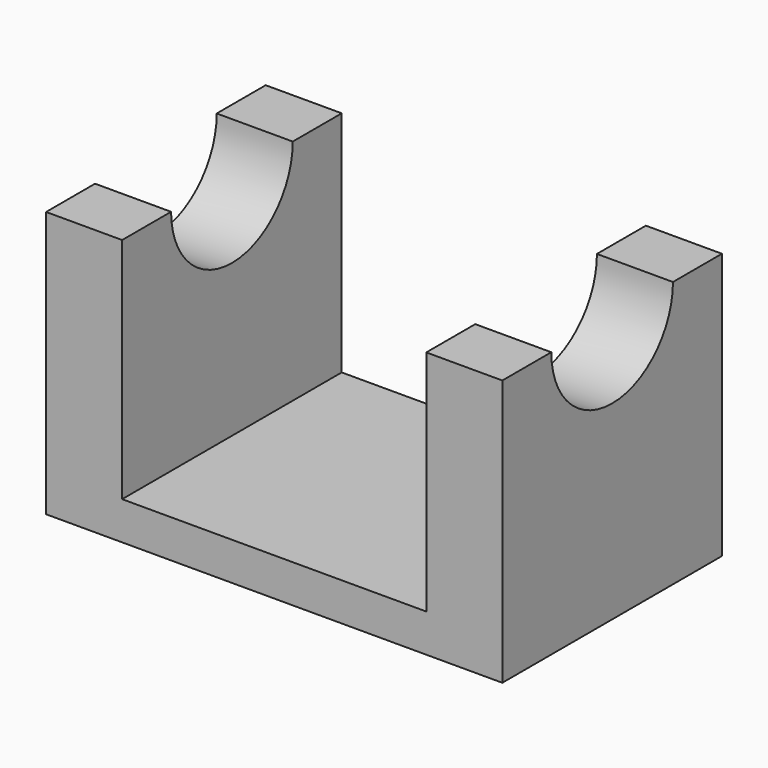
from build123d import *

# Parameters (mm, degrees)
F0_W     = 5
F0_H     = 18.05
F0_W_2   = 20
F1_DEPTH = 2.5
F2_DEPTH = 15
F4_DEPTH = 30.001


with BuildPart() as f1:
    # F0 (on Top) → F1 (new body)
    with BuildSketch(Plane.XY):
        with Locations((2.5, 9.025)):
            Rectangle(F0_W, F0_H)
        with Locations((15, 9.025)):
            Rectangle(F0_W_2, F0_H)
        with Locations((27.5, 9.025)):
            Rectangle(F0_W, F0_H)
    extrude(amount=-F1_DEPTH)

    # F0 (on Top) → F2 (join)
    with BuildSketch(Plane.XY):
        with Locations((2.5, 9.025)):
            Rectangle(F0_W, F0_H)
        with Locations((27.5, 9.025)):
            Rectangle(F0_W, F0_H)
    extrude(amount=F2_DEPTH)

    # F3 (on face) → F4 (cut, through all)
    with BuildSketch(Plane.YZ.offset(30)):
        with BuildLine():
            ThreePointArc((4.025, 15), (9.025, 10), (14.025, 15))
            Line((14.025, 15), (4.025, 15))
        make_face()
        with BuildLine():
            Line((4.025, 15), (14.025, 15))
            ThreePointArc((14.025, 15), (9.025, 20), (4.025, 15))
        make_face()
    extrude(amount=-F4_DEPTH, mode=Mode.SUBTRACT)


solid = f1.part
